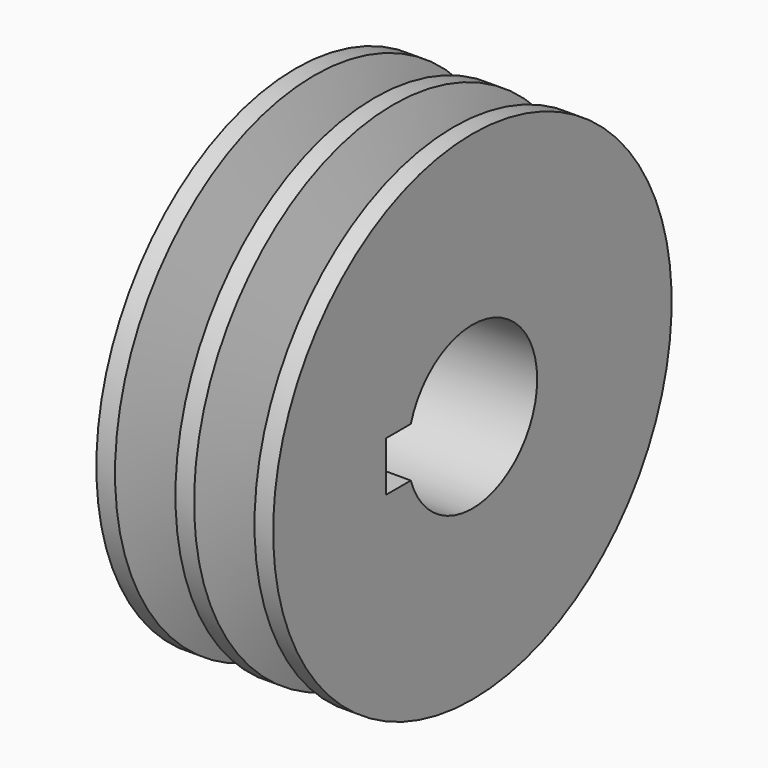
from build123d import *

# Parameters (mm, degrees)
F3_DEPTH = 14.2


with BuildPart() as f2:
    # F1 (on Front) → F2 (revolve)
    with BuildSketch(Plane.XZ):
        Polygon((-14.2, 40), (-14.2, 0), (14.2, 0), (14.2, 40), (11.2, 40), (8.0834, 27.5), (4.6166, 27.5), (1.5, 40), (-1.5, 40), (-4.6166, 27.5), (-8.0834, 27.5), (-11.2, 40), align=None)
    revolve(axis=Axis((0, 0, 0), (-1, 0, 0)))

    # F0 (on Right) → F3 (cut, symmetric)
    with BuildSketch(Plane.YZ):
        with BuildLine():
            Line((-17.3, -4), (-12.369317, -4))
            ThreePointArc((-12.369317, -4), (13, 0), (-12.369317, 4))
            Line((-12.369317, 4), (-17.3, 4))
            Line((-17.3, 4), (-17.3, -4))
        make_face()
    extrude(amount=F3_DEPTH, both=True, mode=Mode.SUBTRACT)


solid = f2.part
